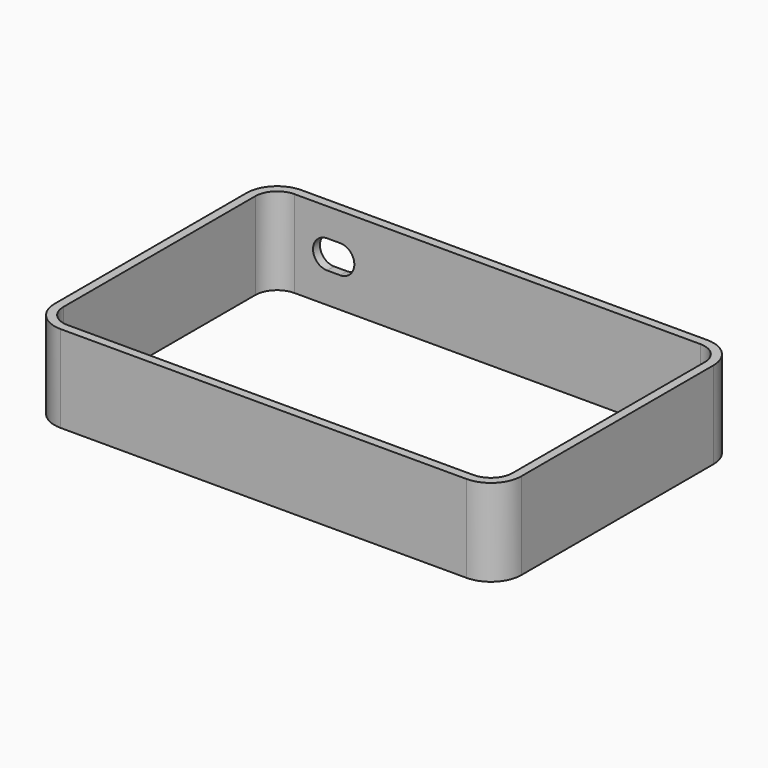
from build123d import *

# Parameters (mm, degrees)
EXTRUDE008_DEPTH = 10
EXTRUDE002_DEPTH = 20


with BuildPart() as extrude008:
    # Sketch006 (on Extrude) → Extrude008 (new body, symmetric)
    with BuildSketch(Plane.XZ):
        with BuildLine():
            ThreePointArc((20.501, -13), (23.751, -9.75), (20.501, -6.5))
            Line((20.501, -6.5), (17.501, -6.5))
            ThreePointArc((17.501, -6.5), (14.251, -9.75), (17.501, -13))
            Line((20.501, -13), (17.501, -13))
        make_face()
    extrude(amount=EXTRUDE008_DEPTH, both=True)


with BuildPart() as shell:
    # Sketch001 (on Sketch) → Extrude002 (new body)
    with BuildSketch(Plane(origin=(0, 0, 0), x_dir=(1, 0, 0), z_dir=(0, 0, -1))):
        with BuildLine():
            Line((3, 65.151), (3, 10.001))
            ThreePointArc((3, 10.001), (5.050485, 5.050192), (10.001, 2.999))
            Line((10.001, 2.999), (103.251, 2.999))
            ThreePointArc((103.251, 2.999), (108.202515, 5.049778), (110.254, 10.001))
            Line((110.251, 65.151), (110.254, 10.001))
            ThreePointArc((110.251, 65.151), (108.200808, 70.101101), (103.251, 72.152))
            Line((10.001, 72.152), (103.251, 72.152))
            ThreePointArc((10.001, 72.152), (5.050545, 70.101455), (3, 65.151))
        make_face()
        with BuildLine():
            Line((5, 65.151), (5.001, 10.001))
            ThreePointArc((5.001, 10.001), (6.465405, 6.465113), (10.001, 5))
            Line((10.001, 5), (103.251, 5.001))
            ThreePointArc((103.251, 5.001), (106.786887, 6.465405), (108.252, 10.001))
            Line((108.252, 10.001), (108.251, 65.151))
            ThreePointArc((108.251, 65.151), (106.786595, 68.686887), (103.251, 70.152))
            Line((103.251, 70.152), (10.001, 70.152))
            ThreePointArc((10.001, 70.152), (6.464759, 68.687241), (5, 65.151))
        make_face(mode=Mode.SUBTRACT)
    extrude(amount=EXTRUDE002_DEPTH)

    # Cut001: cut Extrude008
    add(extrude008.part, mode=Mode.SUBTRACT)


solid = shell.part
